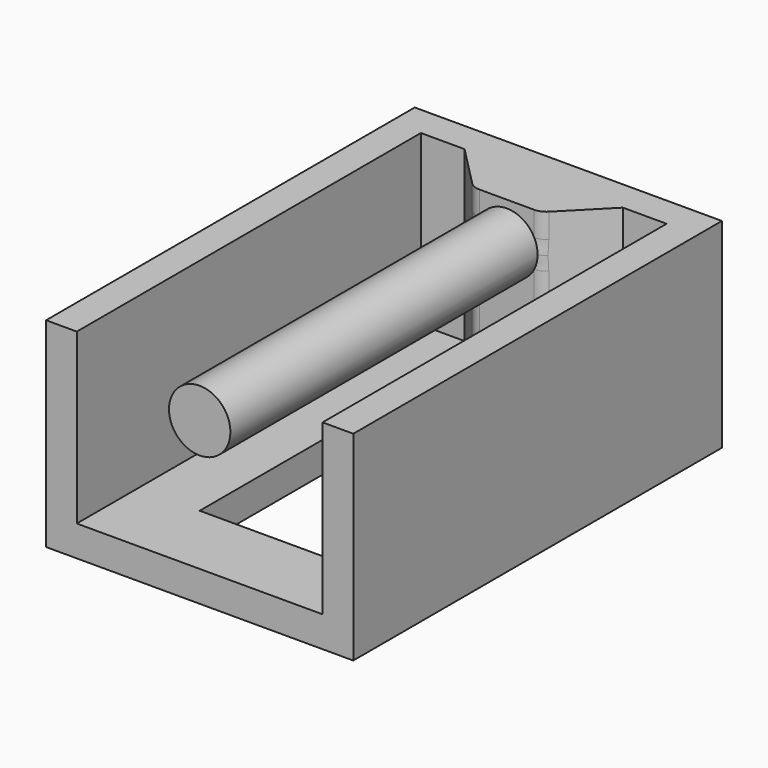
from build123d import *

# Parameters (mm, degrees)
F0_W     = 20
F0_H     = 30
F1_DEPTH = 2
F3_DEPTH = 11
F4_R     = 2
F5_DEPTH = 25
F6_R     = 1
F7_R     = 2.230975


with BuildPart() as f1:
    # F0 (on Top) → F1 (new body)
    with BuildSketch(Plane.XY):
        Rectangle(F0_W, F0_H)
        Polygon((-4, 11.862541), (0, 10), (4, 11.862541), (4, -10), (-4, -10), align=None, mode=Mode.SUBTRACT)
    extrude(amount=F1_DEPTH)

    # F2 (on face) → F3 (join)
    with BuildSketch(Plane.XY.offset(2)):
        Polygon((-2.2, 10), (0, 10), (2.2, 10), (5.155044, 13), (8, 13), (8, -15), (10, -15), (10, 15), (-10, 15), (-10, -15), (-8, -15), (-8, 13), (-5.155044, 13), align=None)
    extrude(amount=F3_DEPTH)

    # F4 (on face) → F5 (join)
    with BuildSketch(Plane.XZ.offset(-10)):
        with Locations((0, 10.5)):
            Circle(F4_R)
    extrude(amount=F5_DEPTH)

    # F6
    f6_edges = [f1.edges().sort_by_distance(p)[0] for p in [
        (2.2, 10, 7.5),
        (-2.2, 10, 7.5),
    ]]
    fillet(f6_edges, radius=F6_R)

    # F7
    f7_edges = [f1.edges().sort_by_distance(p)[0] for p in [
        (0, 10, 1),
    ]]
    fillet(f7_edges, radius=F7_R)


with BuildPart() as f8_1:
    # F8: copy of F1
    add(f1.part.moved(Location((43.7, 0, 0))))


solid = f1.part
